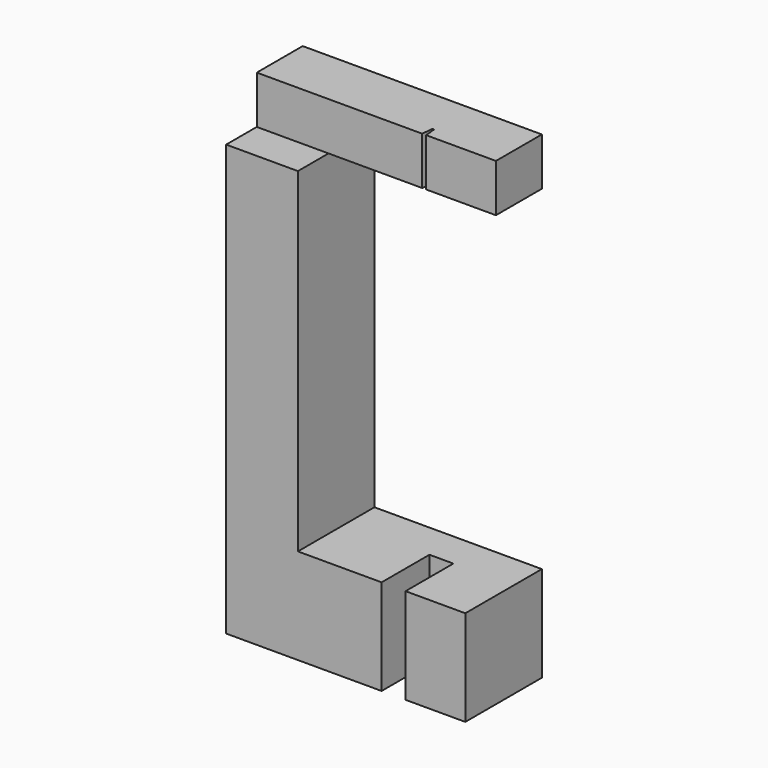
from build123d import *

# Parameters (mm, degrees)
F1_DEPTH = 20
F3_DEPTH = 20
F5_DEPTH = 25
F7_DEPTH = 10


with BuildPart() as f1:
    # F0 (on Front) → F1 (new body)
    with BuildSketch(Plane.XZ):
        Polygon((-25, -10), (25, -10), (25, 10), (-10, 10), (-10, 80), (25, 80), (25, 90), (-10, 90), (-25, 90), (-25, 10), align=None)
    extrude(amount=F1_DEPTH)

    # F2 (on face) → F3 (cut)
    with BuildSketch(Plane.XY.offset(10)):
        Polygon((12.5, -12.5), (12.5, -7.5), (7.5, -7.5), (7.5, -12.5), (7.5, -20), (12.5, -20), align=None)
    extrude(amount=-F3_DEPTH, mode=Mode.SUBTRACT)

    # F4 (on face) → F5 (cut)
    with BuildSketch(Plane.XY.offset(90)):
        with BuildLine():
            ThreePointArc((9.8, -10.2), (10, -10.4), (10.2, -10.2))
            Line((10.2, -10.2), (10.2, -9.8))
            ThreePointArc((10.2, -9.8), (10, -9.6), (9.8, -9.8))
            Line((9.8, -9.8), (9.8, -10.2))
        make_face()
    extrude(amount=-F5_DEPTH, mode=Mode.SUBTRACT)

    # F6 (on face) → F7 (cut)
    with BuildSketch(Plane.XY.offset(90)):
        Polygon((25, -20), (25, -12), (10.40748, -12), (10.25, -10.2), (10.2, -10.2), (9.8, -10.2), (9.75, -10.2), (9.59252, -12), (-25, -12), (-25, -20), align=None)
    extrude(amount=-F7_DEPTH, mode=Mode.SUBTRACT)


solid = f1.part
